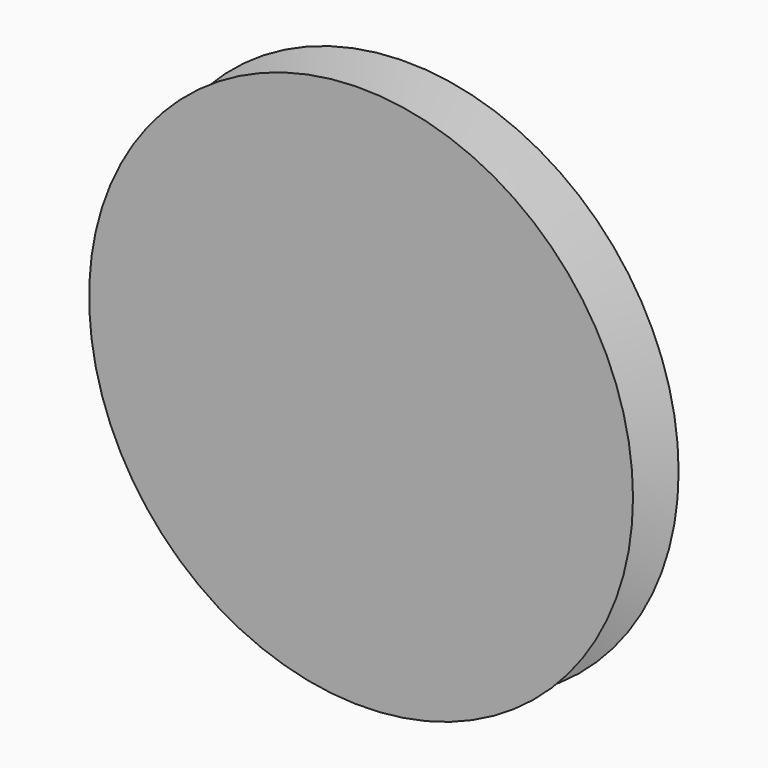
from build123d import *

# Parameters (mm, degrees)
POCKET_DEPTH = 15


with BuildPart() as part:
    # CopySketch → Revolution (revolve)
    with BuildSketch(Plane.XY):
        Polygon((0, 20), (19, 20), (19, 8.389587), (40, 8.389587), (31.909247, 5.444793), (31.909247, 2.944793), (40, 0), (0, 0), align=None)
    revolve(axis=Axis((0, 0, 0), (0, 1, 0)))

    # Sketch002 → Pocket (cut)
    with BuildSketch(Plane(origin=(0, 20, 0), x_dir=(-1, 0, 0), z_dir=(0, 1, 0))):
        Polygon((0, 13.914141), (-12.05, 6.957071), (-12.05, -6.957071), (0, -13.914141), (12.05, -6.957071), (12.05, 6.957071), align=None)
    extrude(amount=-POCKET_DEPTH, mode=Mode.SUBTRACT)


solid = part.part
